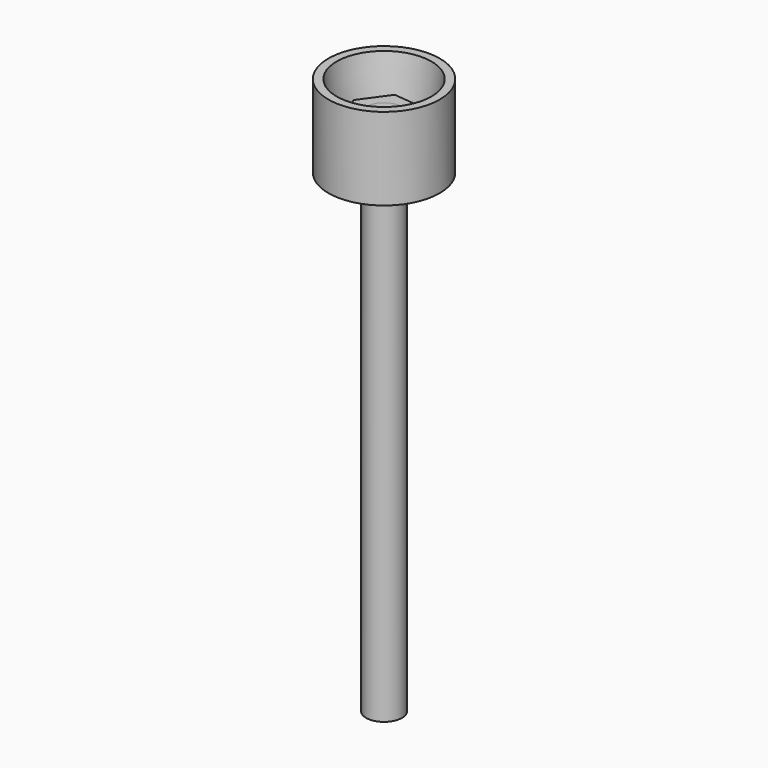
from build123d import *

# Parameters (mm, degrees)
F0_R          = 5.5245
F1_DEPTH      = 20.32
F1_DEPTH_BACK = 141.859
F2_R          = 7.4676
F2_R_2        = 5.5245
F3_DEPTH      = 4.2418
F4_R          = 17.145
F5_DEPTH      = 5.08
F7_DEPTH      = 10.8712
F8_R          = 17.145
F8_R_2        = 14.605
F9_DEPTH      = 20.32


with BuildPart() as f1:
    # F0 (on Top) → F1 (new body, two sides)
    with BuildSketch(Plane.XY) as f1_sk:
        Circle(F0_R)
    extrude(amount=F1_DEPTH)
    extrude(f1_sk.sketch, amount=-F1_DEPTH_BACK)

    # F2 (on Top) → F3 (join)
    with BuildSketch(Plane.XY):
        Circle(F2_R)
        Circle(F2_R_2, mode=Mode.SUBTRACT)
    extrude(amount=F3_DEPTH)

    # F4 (on face) → F5 (join)
    with BuildSketch(Plane.XY.offset(4.2418)):
        Circle(F4_R)
    extrude(amount=F5_DEPTH)

    # F6 (on face) → F7 (join)
    with BuildSketch(Plane.XY.offset(9.3218)):
        Polygon((4.207769, -9.34719), (10.198788, -1.02956), (5.991019, 8.31763), (-4.207769, 9.34719), (-10.198788, 1.02956), (-5.991019, -8.31763), align=None)
    extrude(amount=F7_DEPTH)

    # F8 (on face) → F9 (join)
    with BuildSketch(Plane.XY.offset(9.3218)):
        Circle(F8_R)
        Circle(F8_R_2, mode=Mode.SUBTRACT)
    extrude(amount=F9_DEPTH)

    # F10 (on Right) → F11 (revolve)
    with BuildSketch(Plane.YZ):
        Polygon((-14.605, 29.6418), (-14.605, 9.3218), (-12.065, 9.3218), align=None)
    revolve(axis=Axis((0, 0, 15.219002), (0, 0, 1)))


solid = f1.part
